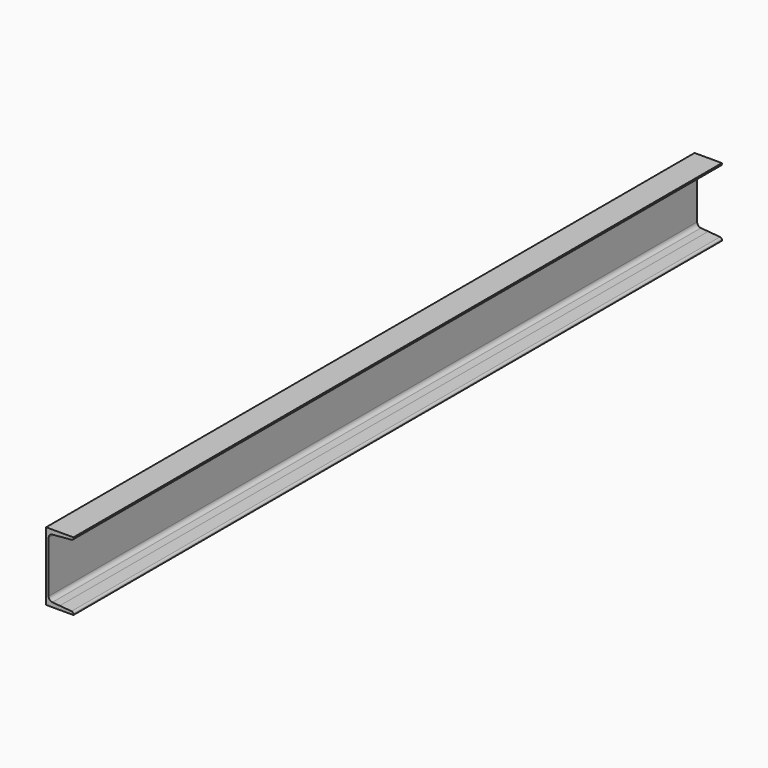
from build123d import *

# Parameters (mm, degrees)
F1_DEPTH = 1185


with BuildPart() as f1:
    # F0 (on Front) → F1 (new body, symmetric)
    with BuildSketch(Plane.XZ):
        with BuildLine():
            Line((0, 100), (0, 0))
            Line((0, 0), (7.5, 0))
            Line((7.5, 0), (7.5, 75.160644))
            ThreePointArc((7.5, 75.160644), (10.652672, 83.267727), (18.454131, 87.114981))
            Line((18.454131, 87.114981), (40, 89))
            Line((40, 89), (40, 100))
            Line((40, 100), (0, 100))
        make_face()
        with BuildLine():
            Line((80, 100), (40, 100))
            Line((40, 100), (40, 89))
            Line((40, 89), (74.522934, 92.020365))
            ThreePointArc((74.522934, 92.020365), (78.423664, 93.943992), (80, 97.997534))
            Line((80, 97.997534), (80, 100))
        make_face()
        with BuildLine():
            Line((7.5, 0), (0, 0))
            Line((0, 0), (0, -100))
            Line((0, -100), (40, -100))
            Line((40, -100), (40, -89))
            Line((40, -89), (18.454131, -87.114981))
            ThreePointArc((18.454131, -87.114981), (10.652672, -83.267727), (7.5, -75.160644))
            Line((7.5, -75.160644), (7.5, 0))
        make_face()
        with BuildLine():
            Line((40, -89), (40, -100))
            Line((40, -100), (80, -100))
            Line((80, -100), (80, -97.997534))
            ThreePointArc((80, -97.997534), (78.423664, -93.943992), (74.522934, -92.020365))
            Line((74.522934, -92.020365), (40, -89))
        make_face()
    extrude(amount=F1_DEPTH, both=True)


solid = f1.part
